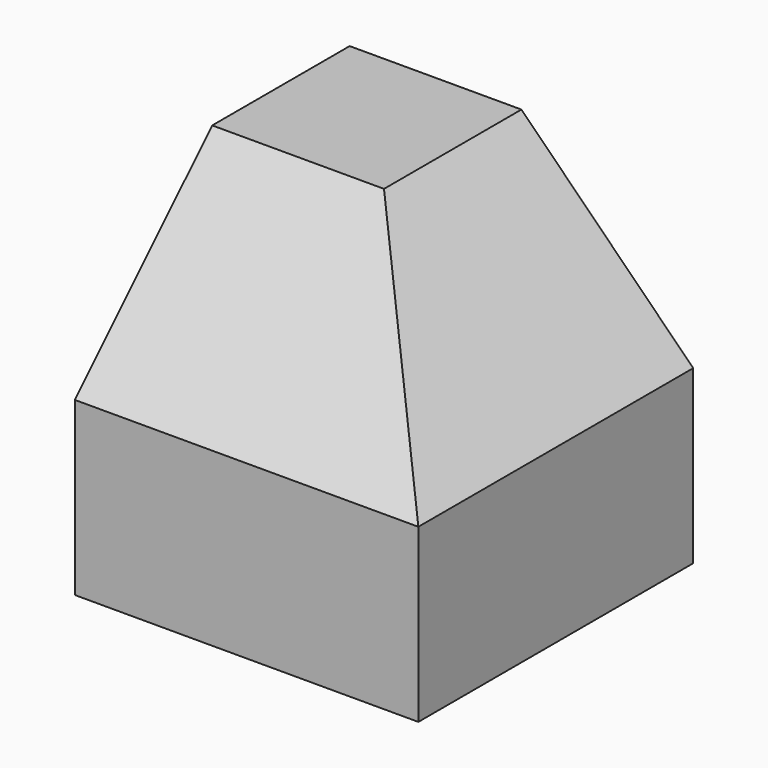
from build123d import *

# Parameters (mm, degrees)
F0_W     = 152.4
F0_H     = 152.4
F1_DEPTH = 76.2
F4_DEPTH = 152.401
F5_DEPTH = 152.401


with BuildPart() as f1:
    # F0 (on Top) → F1 (new body, symmetric)
    with BuildSketch(Plane.XY):
        Rectangle(F0_W, F0_H)
    extrude(amount=F1_DEPTH, both=True)

    # F2 (on face) → F4 (cut, through all)
    with BuildSketch(Plane.YZ.offset(76.2)):
        Polygon((-76.2, 76.2), (-76.2, 0), (0, 76.2), align=None)
    extrude(amount=-F4_DEPTH, mode=Mode.SUBTRACT)

    # F3 (on face) → F5 (cut, through all)
    with BuildSketch(Plane.XZ.offset(76.2)):
        Polygon((76.2, 76.2), (0, 76.2), (76.2, 0), align=None)
    extrude(amount=-F5_DEPTH, mode=Mode.SUBTRACT)


solid = f1.part
